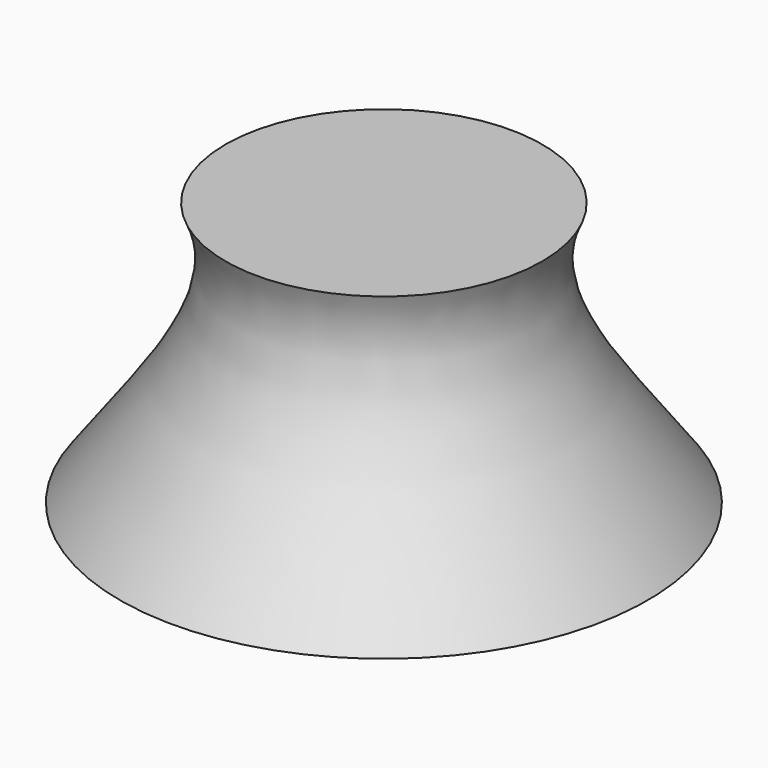
from build123d import *

# Parameters (mm, degrees)
F2_R     = 25
F3_DEPTH = 30


with BuildPart() as f1:
    # F0 (on Front) → F1 (revolve)
    with BuildSketch(Plane.XZ):
        with BuildLine():
            Line((-50, 0), (0, 0))
            Line((0, 0), (0, 50))
            Line((0, 50), (-30, 50))
            add(Edge.make_bspline(
                [(-30, 50), (-25.0499490649, 39.644498378), (-35.2470077936, 19.3582796553), (-38.3085124195, 15.8900432289), (-50, 0)],
                knots=[0, 0, 0, 0, 0.4874337312, 1, 1, 1, 1], degree=3))
        make_face()
    revolve(axis=Axis((0, 0, 25), (0, 0, 1)))

    # F2 (on face) → F3 (cut)
    with BuildSketch(Plane(origin=(0, 0, 0), x_dir=(1, 0, 0), z_dir=(0, 0, -1))):
        Circle(F2_R)
    extrude(amount=-F3_DEPTH, mode=Mode.SUBTRACT)


solid = f1.part
